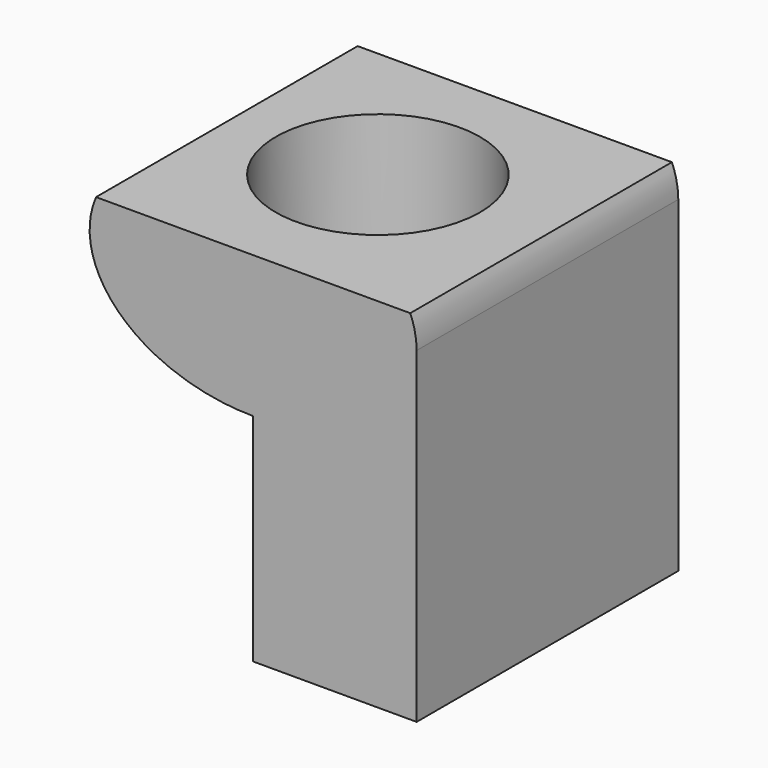
from build123d import *

# Parameters (mm, degrees)
F1_DEPTH = 50.8
F2_R     = 15.875
F3_DEPTH = 16.51


with BuildPart() as f1:
    # F0 (on Front) → F1 (new body)
    with BuildSketch(Plane.XZ):
        with BuildLine():
            Line((33.524738, -22.003179), (33.524738, -4.773449))
            Line((33.524738, -4.773449), (58.924738, -4.773449))
            add(Edge.make_bspline(
                [(58.924738, -4.773449), (58.924738, -2.339079), (57.930489, 0)],
                knots=[0, 0, 0, 0.28072, 0.28072, 0.28072], degree=2, weights=[1, 0.990166, 1]))
            Line((57.930489, 0), (9.118988, 0))
            add(Edge.make_bspline(
                [(9.118988, 0), (-0.23369, -22.003179), (33.524738, -22.003179)],
                knots=[2.860873, 2.860873, 2.860873, 4.712389, 4.712389, 4.712389], degree=2, weights=[1, 0.601229, 1]))
        make_face()
        with BuildLine():
            Line((58.924738, -4.773449), (33.524738, -4.773449))
            Line((33.524738, -4.773449), (33.524738, -22.003179))
            add(Edge.make_bspline(
                [(33.524738, -22.003179), (58.924738, -22.003179), (58.924738, -4.773449)],
                knots=[4.712389, 4.712389, 4.712389, 6.283185, 6.283185, 6.283185], degree=2, weights=[1, 0.707107, 1]))
        make_face()
        with BuildLine():
            Line((58.924738, -55.573449), (58.924738, -4.773449))
            add(Edge.make_bspline(
                [(33.524738, -22.003179), (58.924738, -22.003179), (58.924738, -4.773449)],
                knots=[4.712389, 4.712389, 4.712389, 6.283185, 6.283185, 6.283185], degree=2, weights=[1, 0.707107, 1]))
            Line((33.524738, -22.003179), (33.524738, -55.573449))
            Line((33.524738, -55.573449), (58.924738, -55.573449))
        make_face()
    extrude(amount=F1_DEPTH)

    # F2 (on Top) → F3 (cut)
    with BuildSketch(Plane.XY):
        with Locations((32.122239, -24.83069)):
            Circle(F2_R)
    extrude(amount=-F3_DEPTH, mode=Mode.SUBTRACT)


solid = f1.part
